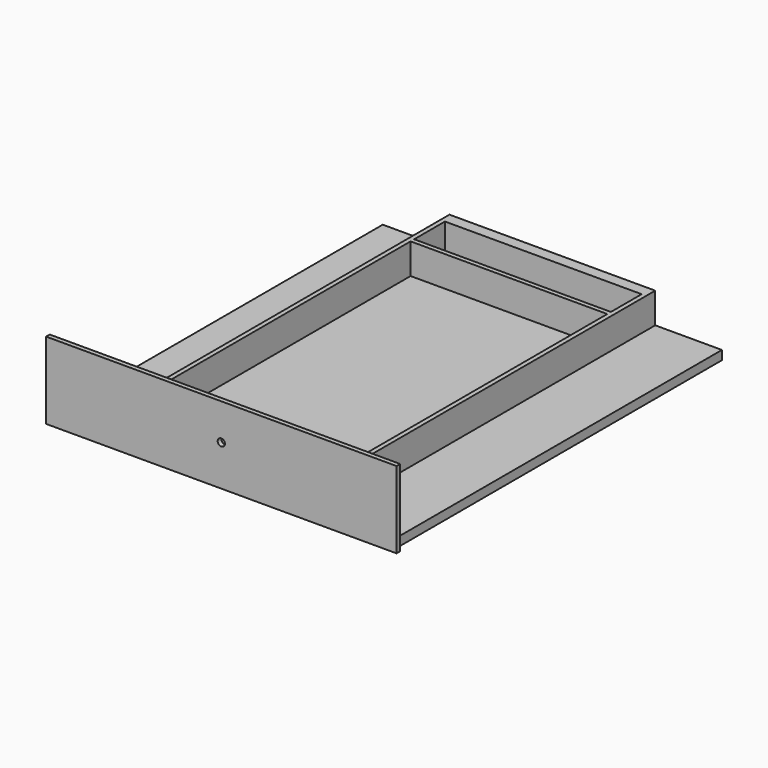
from build123d import *

# Parameters (mm, degrees)
SKETCH056_W     = 150
SKETCH056_H     = 181
PAD017_DEPTH    = 4
SKETCH057_W     = 87
SKETCH057_H     = 17
PAD018_DEPTH    = 13.5
SKETCH058_W     = 155
SKETCH058_H     = 34
PAD019_DEPTH    = 2
SKETCH059_R     = 1.6
POCKET014_DEPTH = 2
SKETCH082_R     = 4.05
POCKET023_DEPTH = 3


with BuildPart() as part:
    # Sketch056 → Pad017 (new body)
    with BuildSketch(Plane.XY):
        with Locations((0, -4)):
            Rectangle(SKETCH056_W, SKETCH056_H)
    extrude(amount=PAD017_DEPTH)

    # Sketch057 (on DatumPlane) → Pad018 (join)
    with BuildSketch(Plane.XY.offset(4)):
        Polygon((-45.5, 86.5), (45.5, 86.5), (45.5, -94.5), (43.5, -94.5), (43.5, 62.5), (-43.5, 62.5), (-43.5, -94.5), (-45.5, -94.5), align=None)
        with Locations((0, 73)):
            Rectangle(SKETCH057_W, SKETCH057_H, mode=Mode.SUBTRACT)
    extrude(amount=PAD018_DEPTH)

    # Sketch058 (on DatumPlane) → Pad019 (join)
    with BuildSketch(Plane.XZ.offset(94.5)):
        with Locations((0, 17)):
            Rectangle(SKETCH058_W, SKETCH058_H)
    extrude(amount=PAD019_DEPTH)

    # Sketch059 (on DatumPlane) → Pocket014 (cut)
    with BuildSketch(Plane.XZ.offset(94.5)):
        with Locations((0, 18)):
            Circle(SKETCH059_R)
    extrude(amount=POCKET014_DEPTH, mode=Mode.SUBTRACT)

    # Sketch082 (on DatumPlane) → Pocket023 (cut)
    with BuildSketch(Plane.XZ.offset(-87)):
        with Locations((0, 8.05)):
            Circle(SKETCH082_R)
    extrude(amount=POCKET023_DEPTH, mode=Mode.SUBTRACT)


with BuildPart() as part_1:
    # Body007 placement: moved
    add(part.part.moved(Location((0, -75.5, -71))))


solid = part_1.part
